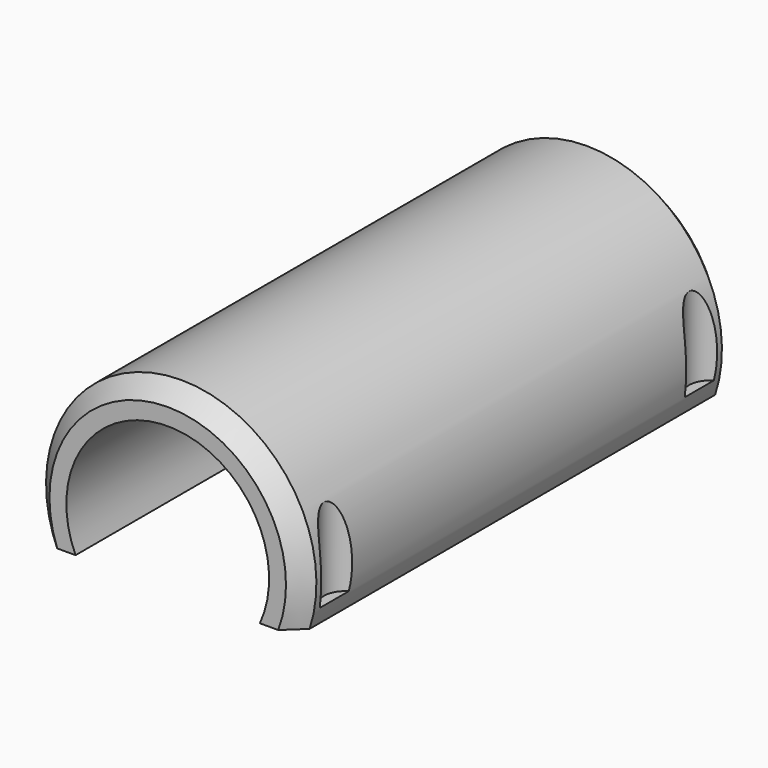
from build123d import *

# Parameters (mm, degrees)
CYLINDER1804_R     = 2.5
CYLINDER1804_DEPTH = 30
CYLINDER1805_R     = 2.5
CYLINDER1805_DEPTH = 30
CYLINDER1803_R     = 2.5
CYLINDER1803_DEPTH = 30
CYLINDER1802_R     = 2.5
CYLINDER1802_DEPTH = 30
BOX715_W           = 100
BOX715_H           = 100
BOX715_DEPTH       = 100
TUBE089_R          = 16
TUBE089_R_2        = 12
TUBE089_DEPTH      = 64
CHAMFER060_SIZE    = 2


with BuildPart() as obj1:
    # Cylinder1804 → Cylinder1804 (new body)
    with BuildSketch(Plane(origin=(58, -43, 26), x_dir=(1, 0, 0), z_dir=(0, 0, 1))):
        Circle(CYLINDER1804_R)
    extrude(amount=CYLINDER1804_DEPTH)


with BuildPart() as compound911:
    # Cylinder1805 → Cylinder1805 (new body)
    with BuildSketch(Plane(origin=(58, 11, 26), x_dir=(1, 0, 0), z_dir=(0, 0, 1))):
        Circle(CYLINDER1805_R)
    extrude(amount=CYLINDER1805_DEPTH)

    # Compound911: union obj1
    add(obj1.part)


with BuildPart() as compound911_1:
    # Compound911 placement: moved
    add(compound911.part.moved(Location((34, 0, 13))))


with BuildPart() as obj2:
    # Cylinder1803 → Cylinder1803 (new body)
    with BuildSketch(Plane(origin=(58, -43, 26), x_dir=(1, 0, 0), z_dir=(0, 0, 1))):
        Circle(CYLINDER1803_R)
    extrude(amount=CYLINDER1803_DEPTH)


with BuildPart() as compound912:
    # Cylinder1802 → Cylinder1802 (new body)
    with BuildSketch(Plane(origin=(58, 11, 26), x_dir=(1, 0, 0), z_dir=(0, 0, 1))):
        Circle(CYLINDER1802_R)
    extrude(amount=CYLINDER1802_DEPTH)

    # Compound910: union obj2
    add(obj2.part)


with BuildPart() as compound912_1:
    # Compound910 placement: moved
    add(compound912.part.moved(Location((0, 0, 13))))

    # Compound912: union Compound911
    add(compound911_1.part)


with BuildPart() as krychle715:
    # Box715 → Box715 (new body)
    with BuildSketch(Plane(origin=(32, -54, -63), x_dir=(1, 0, 0), z_dir=(0, 0, 1))):
        with Locations((50, 50)):
            Rectangle(BOX715_W, BOX715_H)
    extrude(amount=BOX715_DEPTH)


with BuildPart() as cut532:
    # Tube089 → Tube089 (new body)
    with BuildSketch(Plane(origin=(75, 16, 42), x_dir=(1, 0, 0), z_dir=(0, -1, 0))):
        Circle(TUBE089_R)
        Circle(TUBE089_R_2, mode=Mode.SUBTRACT)
    extrude(amount=TUBE089_DEPTH)

    # Chamfer060
    chamfer060_edges = [cut532.edges().sort_by_distance(p)[0] for p in [
        (59, -48, 42),
        (59, 16, 42),
    ]]
    chamfer(chamfer060_edges, length=CHAMFER060_SIZE)

    # Cut535: cut Krychle715
    add(krychle715.part, mode=Mode.SUBTRACT)

    # Cut532: cut Compound912
    add(compound912_1.part, mode=Mode.SUBTRACT)


solid = cut532.part
